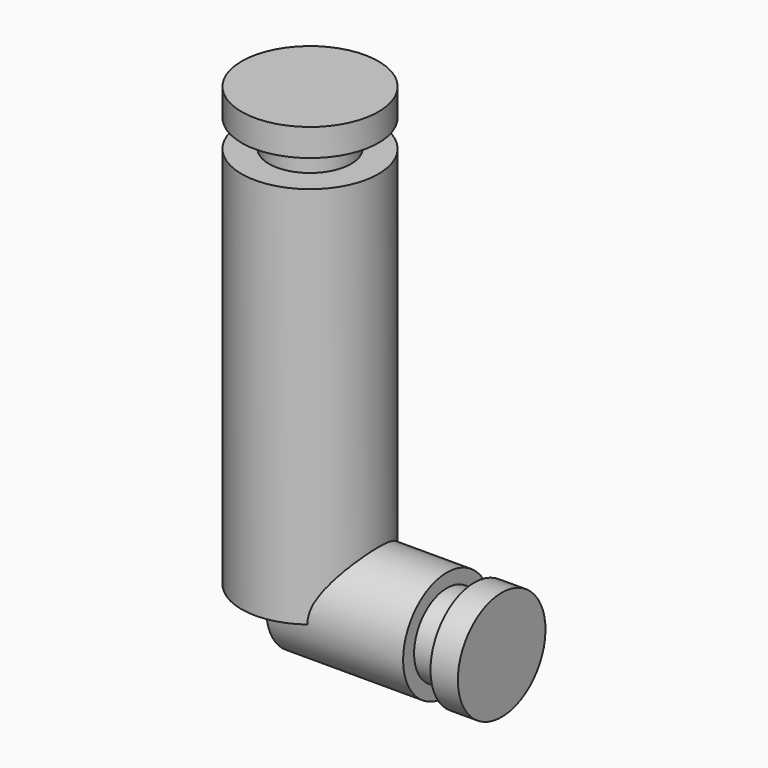
from build123d import *


with BuildPart() as f1:
    # F0 (on Front) → F1 (revolve)
    with BuildSketch(Plane.XZ):
        Polygon((0, 4), (0, 0), (14, 0), (14, 4), (12, 4), (12, 3), (10, 3), (10, 4), align=None)
    revolve(axis=Axis((3.514706, 0, 0), (1, 0, 0)))


with BuildPart() as f3:
    # F2 (on Front) → F3 (revolve)
    with BuildSketch(Plane.XZ):
        Polygon((-5, 0), (0, 0), (0, 32), (-5, 32), (-5, 30), (-3, 30), (-3, 28), (-5, 28), align=None)
    revolve(axis=Axis((0, 0, 19.274761), (0, 0, 1)))


solid = Compound([f1.part, f3.part])
